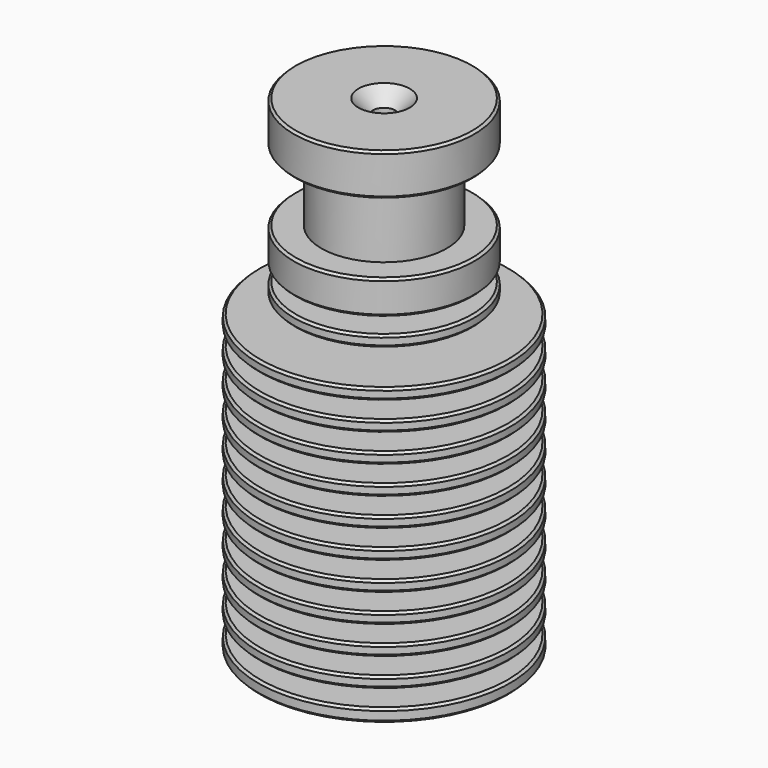
from build123d import *

# Parameters (mm, degrees)
F2_SIZE = 0.2


with BuildPart() as f1:
    # F0 (on Front) → F1 (revolve)
    with BuildSketch(Plane.XZ):
        Polygon((-11.15, 0), (-3.5, 0), (-3.5, 17.3), (-1, 19.8), (-1, 41.627208), (-2.272792, 42.9), (-8, 42.9), (-8, 39.2), (-5.55, 39.2), (-5.55, 33), (-8, 33), (-8, 30), (-4.2, 30), (-4.2, 28.595), (-8, 28.595), (-8, 27.595), (-4.2, 27.595), (-4.2, 26.1), (-11.15, 26.1), (-11.15, 25.1), (-4.385, 25.1), (-4.385, 23.605), (-11.15, 23.605), (-11.15, 22.605), (-4.57, 22.605), (-4.57, 21.11), (-11.15, 21.11), (-11.15, 20.11), (-4.755, 20.11), (-4.755, 18.615), (-11.15, 18.615), (-11.15, 17.615), (-4.94, 17.615), (-4.94, 16.12), (-11.15, 16.12), (-11.15, 15.12), (-5.125, 15.12), (-5.125, 13.625), (-11.15, 13.625), (-11.15, 12.625), (-5.31, 12.625), (-5.31, 11.13), (-11.15, 11.13), (-11.15, 10.13), (-5.495, 10.13), (-5.495, 8.635), (-11.15, 8.635), (-11.15, 7.635), (-5.68, 7.635), (-5.68, 6.14), (-11.15, 6.14), (-11.15, 5.14), (-5.865, 5.14), (-5.865, 3.645), (-11.15, 3.645), (-11.15, 2.645), (-6.05, 2.645), (-6.05, 1.15), (-11.15, 1.15), align=None)
    revolve(axis=Axis((0, 0, 21.45), (0, 0, -1)))

    # F2
    f2_edges = [f1.edges().sort_by_distance(p)[0] for p in [
        (8, 0, 42.9),
        (8, 0, 39.2),
        (-8, 0, 41.05),
        (8, 0, 33),
        (8, 0, 30),
        (-8, 0, 31.5),
        (8, 0, 28.595),
        (8, 0, 27.595),
        (-8, 0, 28.095),
        (11.15, 0, 26.1),
        (11.15, 0, 25.1),
        (-11.15, 0, 25.6),
        (11.15, 0, 23.605),
        (11.15, 0, 22.605),
        (-11.15, 0, 23.105),
        (11.15, 0, 21.11),
        (11.15, 0, 20.11),
        (-11.15, 0, 20.61),
        (11.15, 0, 18.615),
        (11.15, 0, 17.615),
        (-11.15, 0, 18.115),
        (11.15, 0, 16.12),
        (11.15, 0, 15.12),
        (-11.15, 0, 15.62),
        (11.15, 0, 13.625),
        (11.15, 0, 12.625),
        (-11.15, 0, 13.125),
        (11.15, 0, 11.13),
        (11.15, 0, 10.13),
        (-11.15, 0, 10.63),
        (11.15, 0, 8.635),
        (11.15, 0, 7.635),
        (-11.15, 0, 8.135),
        (11.15, 0, 6.14),
        (11.15, 0, 5.14),
        (-11.15, 0, 5.64),
        (11.15, 0, 3.645),
        (11.15, 0, 2.645),
        (-11.15, 0, 3.145),
        (11.15, 0, 1.15),
        (11.15, 0, 0),
        (-11.15, 0, 0.575),
    ]]
    chamfer(f2_edges, length=F2_SIZE)


solid = f1.part
